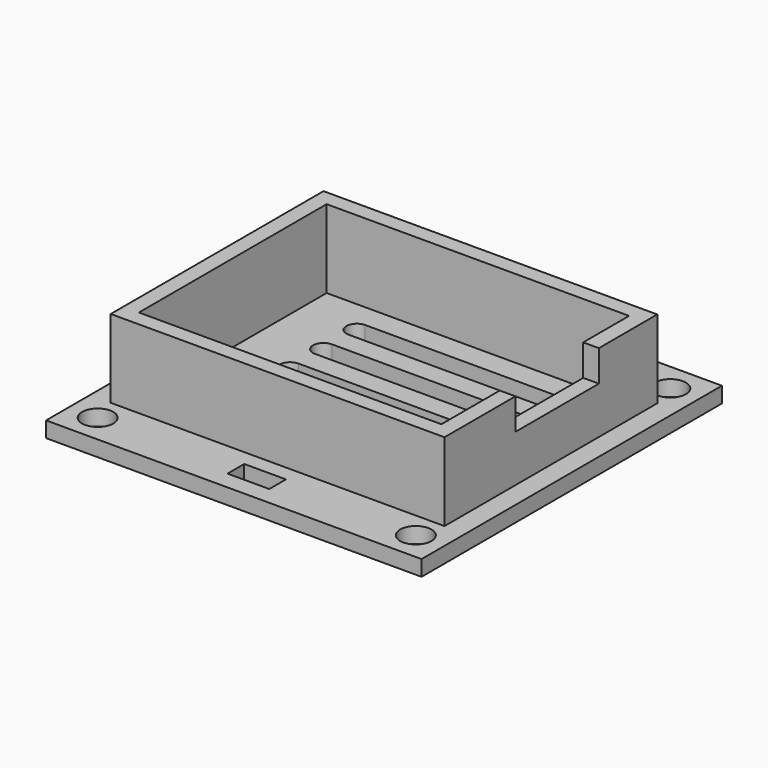
from build123d import *

# Parameters (mm, degrees)
F0_W      = 36
F0_H      = 36
F0_R      = 1.5
F3_DEPTH  = 1.5
F1_W      = 32
F1_H      = 25.5
F4_DEPTH  = 9
F5_T      = -1.5
F6_DEPTH  = 25
F7_W      = 1.5
F7_H      = 10
F8_DEPTH  = 3
F9_W      = 4
F9_H      = 2
F10_DEPTH = 25


with BuildPart() as f3:
    # F0 (on Top) → F3 (new body)
    with BuildSketch(Plane.XY):
        Rectangle(F0_W, F0_H)
        with Locations((-15.25, -15.25)):
            Circle(F0_R, mode=Mode.SUBTRACT)
        with Locations((15.25, -15.25)):
            Circle(F0_R, mode=Mode.SUBTRACT)
        with Locations((-15.25, 15.25)):
            Circle(F0_R, mode=Mode.SUBTRACT)
        with Locations((15.25, 15.25)):
            Circle(F0_R, mode=Mode.SUBTRACT)
    extrude(amount=F3_DEPTH)

    # F1 (on Top) → F4 (join)
    with BuildSketch(Plane.XY):
        Rectangle(F1_W, F1_H)
    extrude(amount=F4_DEPTH)

    # F5
    f5_openings = [f3.faces().sort_by_distance(p)[0] for p in [
        (0, 0, 9),
    ]]
    offset(amount=F5_T, openings=f5_openings, kind=Kind.INTERSECTION)

    # F2 (on Top) → F6 (cut)
    with BuildSketch(Plane.XY):
        with BuildLine():
            ThreePointArc((-8, 0), (-8.2928932188, 0.7071067812), (-9, 1))
            Line((-9, 1), (-9, -1))
            ThreePointArc((-9, -1), (-8.2928932188, -0.7071067812), (-8, 0))
        make_face()
        with BuildLine():
            Line((9, 1), (-9, 1))
            ThreePointArc((-9, 1), (-8.2928932188, 0.7071067812), (-8, 0))
            ThreePointArc((-8, 0), (-8.2928932188, -0.7071067812), (-9, -1))
            Line((-9, -1), (9, -1))
            ThreePointArc((9, -1), (8, 0), (9, 1))
        make_face()
        with BuildLine():
            Line((-9, -1), (-9, 1))
            ThreePointArc((-9, 1), (-10, 0), (-9, -1))
        make_face()
        with BuildLine():
            ThreePointArc((10, 0), (9.7071067812, 0.7071067812), (9, 1))
            Line((9, 1), (9, -1))
            ThreePointArc((9, -1), (9.7071067812, -0.7071067812), (10, 0))
        make_face()
        with BuildLine():
            Line((9, -1), (9, 1))
            ThreePointArc((9, 1), (8, 0), (9, -1))
        make_face()
        with BuildLine():
            ThreePointArc((-8, 4), (-8.2928932188, 3.2928932188), (-9, 3))
            Line((-9, 3), (9, 3))
            ThreePointArc((9, 3), (8, 4), (9, 5))
            Line((9, 5), (-9, 5))
            ThreePointArc((-9, 5), (-8.2928932188, 4.7071067812), (-8, 4))
        make_face()
        with BuildLine():
            Line((-9, 5), (-9, 3))
            ThreePointArc((-9, 3), (-8.2928932188, 3.2928932188), (-8, 4))
            ThreePointArc((-8, 4), (-8.2928932188, 4.7071067812), (-9, 5))
        make_face()
        with BuildLine():
            ThreePointArc((-9, 5), (-10, 4), (-9, 3))
            Line((-9, 3), (-9, 5))
        make_face()
        with BuildLine():
            Line((9, 5), (9, 3))
            ThreePointArc((9, 3), (9.7071067812, 3.2928932188), (10, 4))
            ThreePointArc((10, 4), (9.7071067812, 4.7071067812), (9, 5))
        make_face()
        with BuildLine():
            ThreePointArc((9, 5), (8, 4), (9, 3))
            Line((9, 3), (9, 5))
        make_face()
        with BuildLine():
            ThreePointArc((-8, 8), (-8.2928932188, 7.2928932188), (-9, 7))
            Line((-9, 7), (9, 7))
            ThreePointArc((9, 7), (8, 8), (9, 9))
            Line((9, 9), (-9, 9))
            ThreePointArc((-9, 9), (-8.2928932188, 8.7071067812), (-8, 8))
        make_face()
        with BuildLine():
            Line((-9, 9), (-9, 7))
            ThreePointArc((-9, 7), (-8.2928932188, 7.2928932188), (-8, 8))
            ThreePointArc((-8, 8), (-8.2928932188, 8.7071067812), (-9, 9))
        make_face()
        with BuildLine():
            ThreePointArc((-9, 9), (-10, 8), (-9, 7))
            Line((-9, 7), (-9, 9))
        make_face()
        with BuildLine():
            Line((9, 9), (9, 7))
            ThreePointArc((9, 7), (9.7071067812, 7.2928932188), (10, 8))
            ThreePointArc((10, 8), (9.7071067812, 8.7071067812), (9, 9))
        make_face()
        with BuildLine():
            ThreePointArc((9, 9), (8, 8), (9, 7))
            Line((9, 7), (9, 9))
        make_face()
        with BuildLine():
            ThreePointArc((9, -5), (9.7071067812, -4.7071067812), (10, -4))
            ThreePointArc((10, -4), (9.7071067812, -3.2928932188), (9, -3))
            Line((9, -3), (9, -5))
        make_face()
        with BuildLine():
            Line((9, -5), (9, -3))
            ThreePointArc((9, -3), (8, -4), (9, -5))
        make_face()
        with BuildLine():
            ThreePointArc((9, -5), (8, -4), (9, -3))
            Line((9, -3), (-9, -3))
            ThreePointArc((-9, -3), (-8.2928932188, -3.2928932188), (-8, -4))
            ThreePointArc((-8, -4), (-8.2928932188, -4.7071067812), (-9, -5))
            Line((-9, -5), (9, -5))
        make_face()
        with BuildLine():
            Line((-9, -5), (-9, -3))
            ThreePointArc((-9, -3), (-10, -4), (-9, -5))
        make_face()
        with BuildLine():
            ThreePointArc((-8, -4), (-8.2928932188, -3.2928932188), (-9, -3))
            Line((-9, -3), (-9, -5))
            ThreePointArc((-9, -5), (-8.2928932188, -4.7071067812), (-8, -4))
        make_face()
        with BuildLine():
            ThreePointArc((9, -9), (9.7071067812, -8.7071067812), (10, -8))
            ThreePointArc((10, -8), (9.7071067812, -7.2928932188), (9, -7))
            Line((9, -7), (9, -9))
        make_face()
        with BuildLine():
            Line((9, -9), (9, -7))
            ThreePointArc((9, -7), (8, -8), (9, -9))
        make_face()
        with BuildLine():
            ThreePointArc((9, -9), (8, -8), (9, -7))
            Line((9, -7), (-9, -7))
            ThreePointArc((-9, -7), (-8.2928932188, -7.2928932188), (-8, -8))
            ThreePointArc((-8, -8), (-8.2928932188, -8.7071067812), (-9, -9))
            Line((-9, -9), (9, -9))
        make_face()
        with BuildLine():
            Line((-9, -9), (-9, -7))
            ThreePointArc((-9, -7), (-10, -8), (-9, -9))
        make_face()
        with BuildLine():
            ThreePointArc((-8, -8), (-8.2928932188, -7.2928932188), (-9, -7))
            Line((-9, -7), (-9, -9))
            ThreePointArc((-9, -9), (-8.2928932188, -8.7071067812), (-8, -8))
        make_face()
    extrude(amount=F6_DEPTH, mode=Mode.SUBTRACT)

    # F7 (on face) → F8 (cut)
    with BuildSketch(Plane.XY.offset(9)):
        with Locations((15.25, 0.75)):
            Rectangle(F7_W, F7_H)
    extrude(amount=-F8_DEPTH, mode=Mode.SUBTRACT)

    # F9 (on face) → F10 (cut)
    with BuildSketch(Plane.XY.offset(1.5)):
        with Locations((0, 15.25)):
            Rectangle(F9_W, F9_H)
        with Locations((0, -15.25)):
            Rectangle(F9_W, F9_H)
    extrude(amount=-F10_DEPTH, mode=Mode.SUBTRACT)


solid = f3.part
